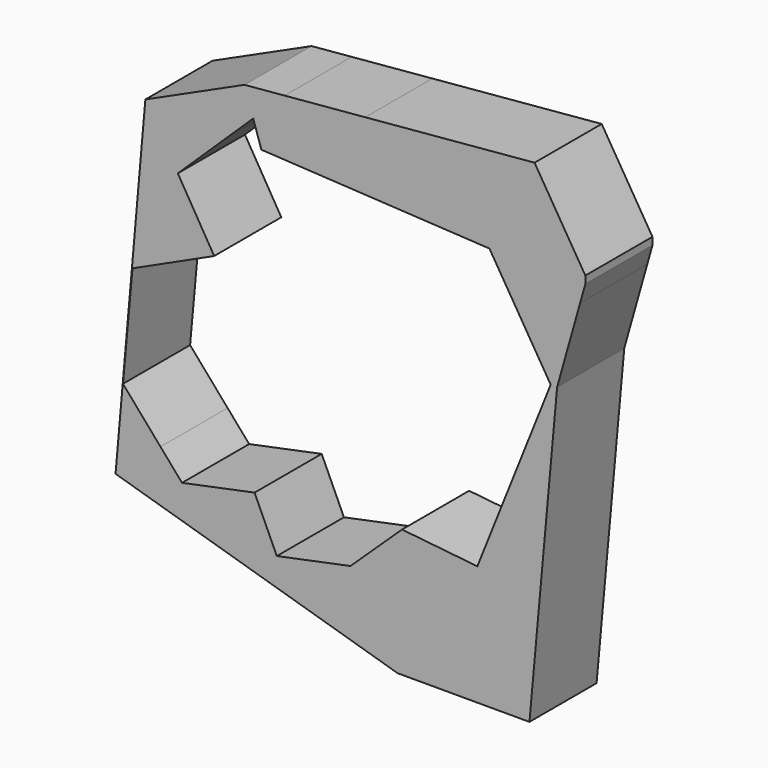
from build123d import *

# Parameters (mm, degrees)
F1_DEPTH = 25.4


with BuildPart() as f1:
    # F0 (on Front) → F1 (new body)
    with BuildSketch(Plane.XZ):
        Polygon((-29.0627366167, 59.2265195809), (-26.5986134675, 51.6914901655), (4.8500286105, 49.9238849428), (4.8500286105, 70.576620616), (-19.5671229655, 68.4053798518), align=None)
        Polygon((31.3274671897, 72.9310678085), (4.8500286105, 49.9238849428), (42.4443297088, 47.8108562529), align=None)
        Polygon((4.8500286105, 70.576620616), (4.8500286105, 49.9238849428), (31.3274671897, 72.9310678085), align=None)
        Polygon((-36.2940447313, 52.2364324526), (-29.0627366167, 59.2265195809), (-31.7112803459, 67.3254877329), (-61.7150329053, 53.6652468145), align=None)
        Polygon((-31.7112803459, 67.3254877329), (-29.0627366167, 59.2265195809), (-19.5671229655, 68.4053798518), align=None)
        Polygon((-51.8806073309, 37.1698042746), (-36.2940447313, 52.2364324526), (-61.7150329053, 53.6652468145), align=None)
        Polygon((-65.600423, 7.4018295103), (-40.8824269365, 18.7223767795), (-51.8806073309, 37.1698042746), (-61.7150329053, 53.6652468145), (-70.7405507565, -49.0305200219), (-68.4894029233, -24.315655452), align=None)
        Polygon((71.4723467827, 47.8108562529), (42.4443297088, 47.8108562529), (46.4224250242, 41.3202796856), (69.8888571857, 42.2007769877), align=None)
        Polygon((56.1034718341, 75.1342187818), (42.4443297088, 47.8108562529), (71.4723467827, 47.8108562529), (71.4723467827, 50.058685971), align=None)
        Polygon((31.3274671897, 72.9310678085), (42.4443297088, 47.8108562529), (56.1034718341, 75.1342187818), align=None)
        Polygon((69.8888571857, 42.2007769877), (46.4224250242, 41.3202796856), (49.9897200646, 35.4999561987), align=None)
        Polygon((15.9801721379, -35.6691343344), (5.2863502547, -45.8093752593), (14.6359754726, -74.3995457888), (38.7853346765, -38.0608700216), align=None)
        Polygon((14.6359754726, -74.3995457888), (5.2863502547, -45.8093752593), (0.3700881163, -50.4711400688), align=None)
        Polygon((-57.13157103, -37.3866297692), (-68.4894029233, -24.315655452), (-70.7405507565, -49.0305200219), align=None)
        Polygon((-57.13157103, -37.3866297692), (-70.7405507565, -49.0305200219), (-50.6175059134, -44.8832346352), align=None)
        Polygon((-50.6175059134, -44.8832346352), (-70.7405507565, -49.0305200219), (-38.7552418775, -58.5347263998), align=None)
        Polygon((69.8888571857, 42.2007769877), (49.9897200646, 35.4999561987), (60.9832331538, 17.5631716847), (62.9346966743, 17.5631716847), align=None)
        Polygon((-17.4304527242, -64.8712353842), (14.6359754726, -74.3995457888), (0.3700881163, -50.4711400688), (-21.9214353892, -55.0653409168), align=None)
        Polygon((38.7853346765, -38.0608700216), (14.6359754726, -74.3995457888), (54.5582934135, -74.3995457888), align=None)
        Polygon((-21.9214353892, -55.0653409168), (-28.6575145446, -40.3573613388), (-50.6175059134, -44.8832346352), (-38.7552418775, -58.5347263998), align=None)
        Polygon((60.9832331538, 17.5631716847), (38.7853346765, -38.0608700216), (54.5582934135, -74.3995457888), (62.9346966743, 17.5631716847), align=None)
        Polygon((-21.9214353892, -55.0653409168), (-38.7552418775, -58.5347263998), (-17.4304527242, -64.8712353842), align=None)
    extrude(amount=F1_DEPTH)


solid = f1.part
